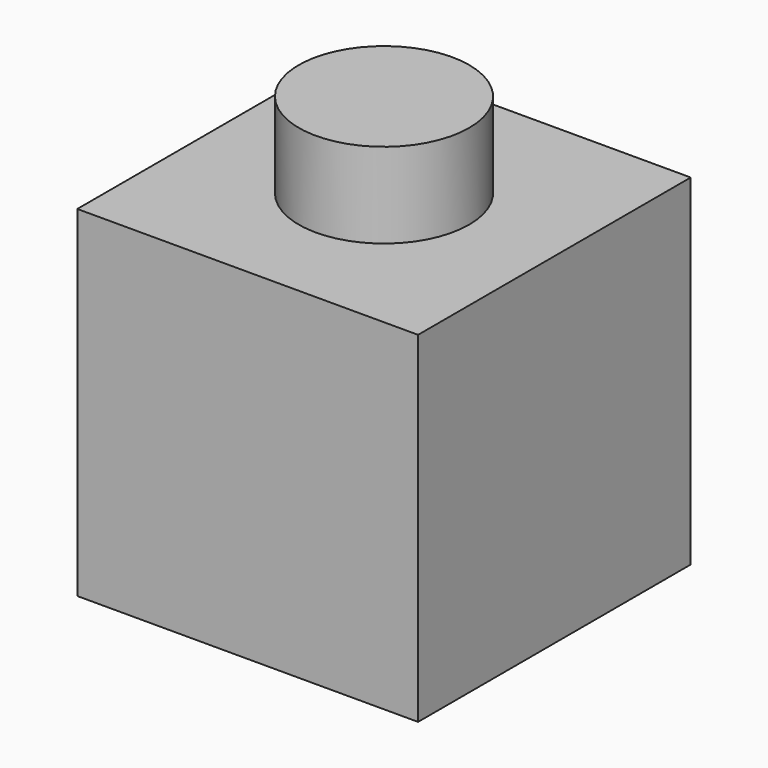
from build123d import *

# Parameters (mm, degrees)
F0_W     = 25.4
F0_H     = 25.4
F1_DEPTH = 25.4
F2_R     = 6.35
F3_DEPTH = 6.35
F4_R     = 6.35
F5_DEPTH = 6.35


with BuildPart() as f1:
    # F0 (on Top) → F1 (new body)
    with BuildSketch(Plane.XY):
        Rectangle(F0_W, F0_H)
    extrude(amount=F1_DEPTH)

    # F2 (on face) → F3 (cut)
    with BuildSketch(Plane(origin=(0, 0, 0), x_dir=(1, 0, 0), z_dir=(0, 0, -1))):
        Circle(F2_R)
    extrude(amount=-F3_DEPTH, mode=Mode.SUBTRACT)

    # F4 (on face) → F5 (join)
    with BuildSketch(Plane.XY.offset(25.4)):
        Circle(F4_R)
    extrude(amount=F5_DEPTH)


solid = f1.part
